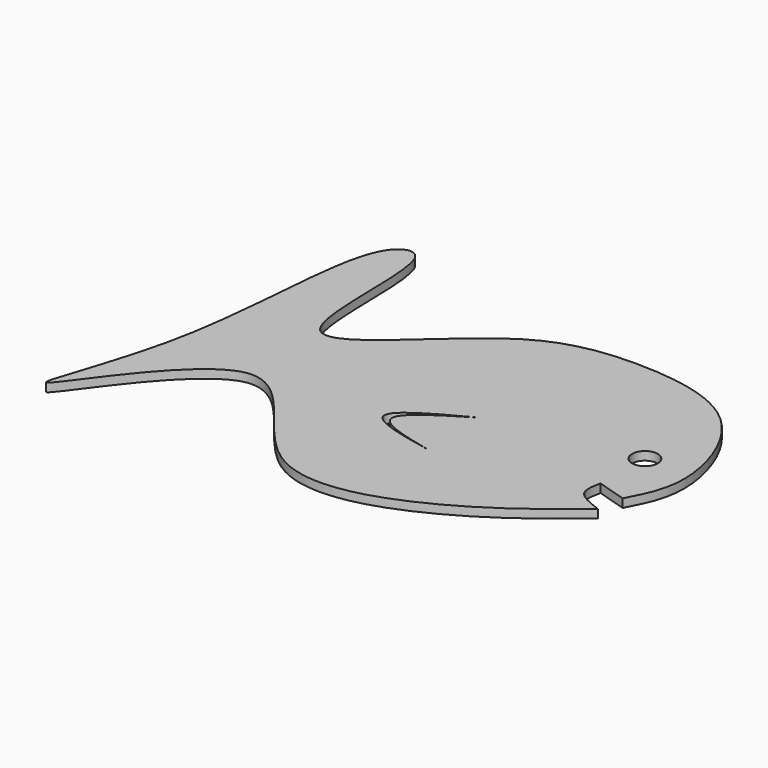
from build123d import *

# Parameters (mm, degrees)
F0_R     = 3.0192551416
F1_DEPTH = 2


with BuildPart() as f1:
    # F0 (on Top) → F1 (new body)
    with BuildSketch(Plane.XY):
        with BuildLine():
            add(Edge.make_bspline(
                [(38.8968847692, -17.2813963145), (38.5219405768, -19.0170523119), (37.6980212015, -22.8310615278), (42.3056552484, -24.5537243845), (44.8164753616, -25.4924483597)],
                knots=[0, 0, 0, 0, 0.4550738866, 1, 1, 1, 1], degree=3))
            Line((38.8968847692, -17.2813963145), (45.7712523639, -19.381897524))
            add(Edge.make_bspline(
                [(45.7712523639, -19.381897524), (47.7443788797, -15.6210237495), (52.4023236483, -6.7427576153), (42.9929406156, 20.4681536199), (16.835462988, 25.1411225794), (-6.2035253647, 22.5648447888), (-22.6331252645, 6.3015690735), (-45.8232501196, -12.4456127112), (-39.2961369933, 36.0004923789), (-55.5372139459, 30.7436643669), (-52.4757329463, -17.6778191227), (-74.8236876161, -67.1055491158), (-36.3491517735, -3.7108461103), (-16.4513129519, -57.3492102398), (23.2998121124, -43.289883701), (37.861570313, -31.2451745829), (44.8164753616, -25.4924483597)],
                knots=[0, 0, 0, 0, 0.0512997356, 0.121102896, 0.1904724709, 0.2562883419, 0.3267893231, 0.3829572427, 0.4642930608, 0.4981558202, 0.5997497961, 0.6752498565, 0.7599983584, 0.842665892, 0.9248549683, 1, 1, 1, 1], degree=3))
        make_face()
        with BuildLine():
            add(Edge.make_bspline(
                [(5.0979079679, -10.7889380306), (-2.1542668709, -14.6119572069), (-16.3573390324, -22.0991756542), (-1.3109361053, -25.1467244204), (6.0526821762, -26.6381762922)],
                knots=[0, 0, 0, 0, 0.5106060686, 1, 1, 1, 1], degree=3))
            add(Edge.make_bspline(
                [(5.0979079679, -10.7889380306), (-1.2965573417, -14.6379292495), (-13.7321775424, -22.1232451651), (-0.4161632508, -25.1619772192), (6.0526821762, -26.6381762922)],
                knots=[0, 0, 0, 0, 0.5142055809, 1, 1, 1, 1], degree=3))
        make_face(mode=Mode.SUBTRACT)
        with Locations((39.0878394246, -4.4874344021)):
            Circle(F0_R, mode=Mode.SUBTRACT)
    extrude(amount=F1_DEPTH)


solid = f1.part
